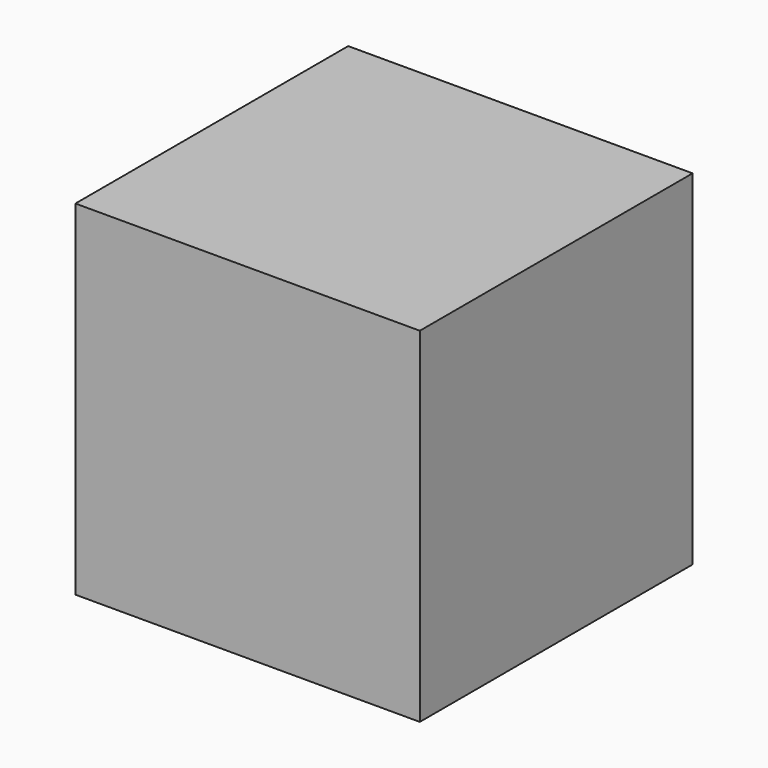
from build123d import *

# Parameters (mm, degrees)
F0_W     = 56.299835
F0_H     = 56.394298
F0_H_2   = 55.260744
F1_DEPTH = 112.776


with BuildPart() as f1:
    # F0 (on Top) → F1 (new body)
    with BuildSketch(Plane.XY):
        with Locations((28.149917, 28.197149)):
            Rectangle(F0_W, F0_H)
        Polygon((0, 0), (0, 56.394298), (-56.48876, 56.394298), (-56.48876, 0), (-3.778512, 0), align=None)
        with Locations((28.149917, -27.630372)):
            Rectangle(F0_W, F0_H_2)
        Polygon((0, -55.260744), (0, 0), (-3.778512, 0), (-56.48876, 0), (-56.48876, -55.260744), align=None)
    extrude(amount=F1_DEPTH)


solid = f1.part
